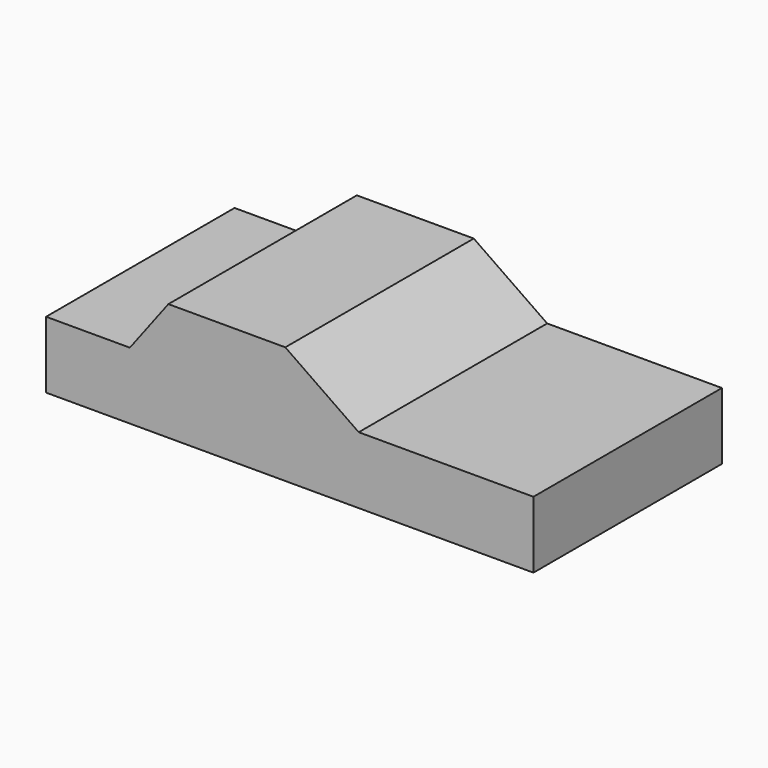
from build123d import *

# Parameters (mm, degrees)
F1_DEPTH = 2300


with BuildPart() as f1:
    # F0 (on Front) → F1 (new body)
    with BuildSketch(Plane.XZ):
        Polygon((-1732.42569, 280.281354), (-1732.42569, 0), (-1123.595238, 0), (-810.496151, 0), (2393.774033, 0), (2706.873178, 0), (3025.920391, 0), (3025.920391, 280.281354), (2706.873178, 280.281354), (2393.774033, 280.281354), (-810.496151, 280.281354), (-1123.595238, 280.281354), align=None)
        Polygon((-1732.42569, 652.407207), (-1732.42569, 280.281354), (-1123.595238, 280.281354), (-810.496151, 280.281354), (2393.774033, 280.281354), (2706.873178, 280.281354), (3025.920391, 280.281354), (3025.920391, 652.407207), (1319.91277, 652.407207), (603.172839, 1149.157643), (-538.481712, 1149.157643), (-914.59273, 652.407207), align=None)
    extrude(amount=F1_DEPTH)


solid = f1.part
